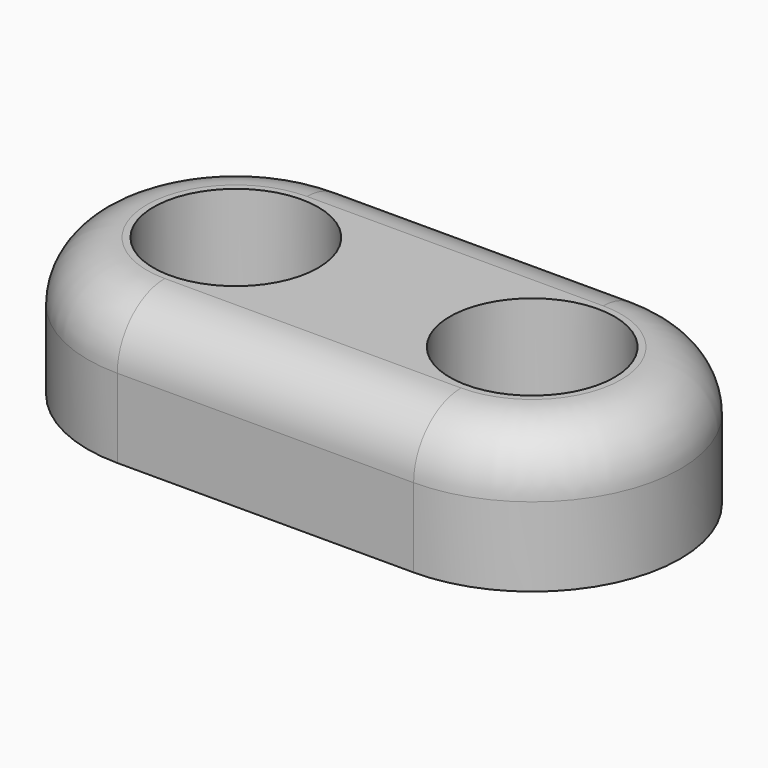
from build123d import *

# Parameters (mm, degrees)
SKETCH_R  = 2.5
PAD_DEPTH = 4.2
FILLET_R  = 1.8


with BuildPart() as part:
    # Sketch → Pad (new body)
    with BuildSketch(Plane.XY):
        with BuildLine():
            ThreePointArc((-4.5, 4.5), (-9, -1.4e-05), (-4.499972, -4.5))
            Line((-4.499972, -4.5), (4.5, -4.5))
            ThreePointArc((4.5, -4.5), (9, 1.4e-05), (4.499972, 4.5))
            Line((-4.5, 4.5), (4.499972, 4.5))
        make_face()
        with Locations((-4.5, 0)):
            Circle(SKETCH_R, mode=Mode.SUBTRACT)
        with Locations((4.5, 0)):
            Circle(SKETCH_R, mode=Mode.SUBTRACT)
    extrude(amount=PAD_DEPTH)

    # Fillet
    fillet_edges = [part.edges().sort_by_distance(p)[0] for p in [
        (9, 1.4e-05, 4.2),
    ]]
    fillet(fillet_edges, radius=FILLET_R)


solid = part.part
